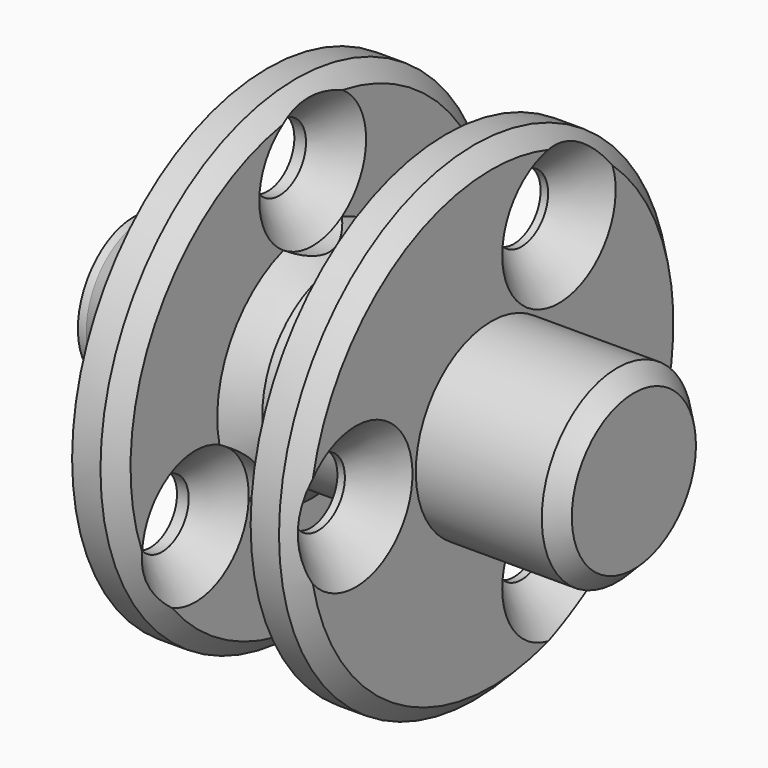
from build123d import *

# Parameters (mm, degrees)
HOLE_D                = 4
HOLE_CSINK_D          = 8.5
HOLE_CSINK_ANGLE      = 90
POLARPATTERN_COUNT    = 3
CHAMFER_SIZE          = 1
CHAMFER001_SIZE       = 1.5
HOLE001_D             = 4
HOLE001_DEPTH         = 86.731717
HOLE001_CSINK_D       = 8
HOLE001_CSINK_ANGLE   = 90
SKETCH004_R           = 4
POCKET_DEPTH          = 94.423988
POLARPATTERN002_COUNT = 3
CHAMFER002_SIZE       = 1


with BuildPart() as body:
    # Sketch → Revolution (revolve)
    with BuildSketch(Plane.XZ):
        Polygon((8, 5.1), (8, 14.65), (10.7, 14.65), (10.7, 5.65), (19.25, 5.65), (19.25, 0), (0, 0), (0, 4.85), (1, 4.85), (2.666667, 5.1), (2.666667, 4.85), (3.666667, 4.85), (5.333333, 5.1), (5.333333, 4.85), (6.333333, 4.85), align=None)
    revolve(axis=Axis((0, 0, 0), (1, 0, 0)))

    # Hole (through all)
    with Locations(Plane(origin=(10.7, 0, 0), x_dir=(0, 0, 1), z_dir=(1, 0, 0))):
        with Locations((0, 10.15)):
            hole = CounterSinkHole(HOLE_D / 2, HOLE_CSINK_D / 2, counter_sink_angle=HOLE_CSINK_ANGLE)

    # PolarPattern: Hole ×3 about axis
    polarpattern_axis = Axis((10.7, 0, 0), (1, 0, 0))
    for i in range(1, POLARPATTERN_COUNT):
        add(hole.rotate(polarpattern_axis, i * 360 / POLARPATTERN_COUNT), mode=Mode.SUBTRACT)

    # Chamfer
    chamfer_edges = [body.edges().sort_by_distance(p)[0] for p in [
        (19.25, 0, -5.65),
    ]]
    chamfer(chamfer_edges, length=CHAMFER_SIZE)

    # Sketch007 → Groove001 (revolve, cut)
    with BuildSketch(Plane.XZ):
        Polygon((9.7, 14.65), (10.7, 13.65), (10.7, 14.65), align=None)
    revolve(axis=Axis((0, 0, 0), (1, 0, 0)), mode=Mode.SUBTRACT)


with BuildPart() as outer:
    # Sketch002 → Revolution001 (revolve)
    with BuildSketch(Plane.XZ):
        Polygon((-2.7, 14.65), (0, 14.65), (0, 5.65), (8.55, 5.65), (8.55, 0), (-1, 0), (-1, 5.25), (-2.7, 5.25), align=None)
    revolve(axis=Axis((0, 0, 0), (1, 0, 0)))

    # Chamfer001
    chamfer001_edges = [outer.edges().sort_by_distance(p)[0] for p in [
        (0, 0, -5.65),
    ]]
    chamfer(chamfer001_edges, length=CHAMFER001_SIZE)

    # Hole001
    with Locations(Plane.YZ):
        with Locations((0, 10.15)):
            hole001 = CounterSinkHole(HOLE001_D / 2, HOLE001_CSINK_D / 2, depth=HOLE001_DEPTH, counter_sink_angle=HOLE001_CSINK_ANGLE)

    # Sketch004 → Pocket (cut, through all)
    with BuildSketch(Plane.YZ):
        with Locations((0, 10.15)):
            Circle(SKETCH004_R)
    pocket = extrude(amount=POCKET_DEPTH, mode=Mode.SUBTRACT)

    # PolarPattern002: Pocket, Hole001 ×3 about axis
    polarpattern002_axis = Axis((0, 0, 0), (1, 0, 0))
    for i in range(1, POLARPATTERN002_COUNT):
        add(pocket.rotate(polarpattern002_axis, i * 360 / POLARPATTERN002_COUNT), mode=Mode.SUBTRACT)
        add(hole001.rotate(polarpattern002_axis, i * 360 / POLARPATTERN002_COUNT), mode=Mode.SUBTRACT)

    # Sketch006 → Groove (revolve, cut)
    with BuildSketch(Plane.XZ):
        Polygon((-1, 14.65), (0, 14.65), (0, 13.65), align=None)
    revolve(axis=Axis((0, 0, 0), (1, 0, 0)), mode=Mode.SUBTRACT)

    # Chamfer002
    chamfer002_edges = [outer.edges().sort_by_distance(p)[0] for p in [
        (8.55, 0, -5.65),
    ]]
    chamfer(chamfer002_edges, length=CHAMFER002_SIZE)


with BuildPart() as inner:
    # Sketch005 → Revolution002 (revolve)
    with BuildSketch(Plane.XZ):
        Polygon((-2.7, 0), (-10.7, 0), (-10.7, 4.217969), (-10.2, 4.217969), (-8.033333, 5.1), (-8.033333, 4.217969), (-7.533333, 4.217969), (-5.366667, 5.1), (-5.366667, 4.217969), (-4.866667, 4.217969), (-2.7, 5.1), (-1.2, 5.1), (-1.2, 0), align=None)
    revolve(axis=Axis((0, 0, 0), (1, 0, 0)))


solid = Compound([body.part, outer.part, inner.part])
